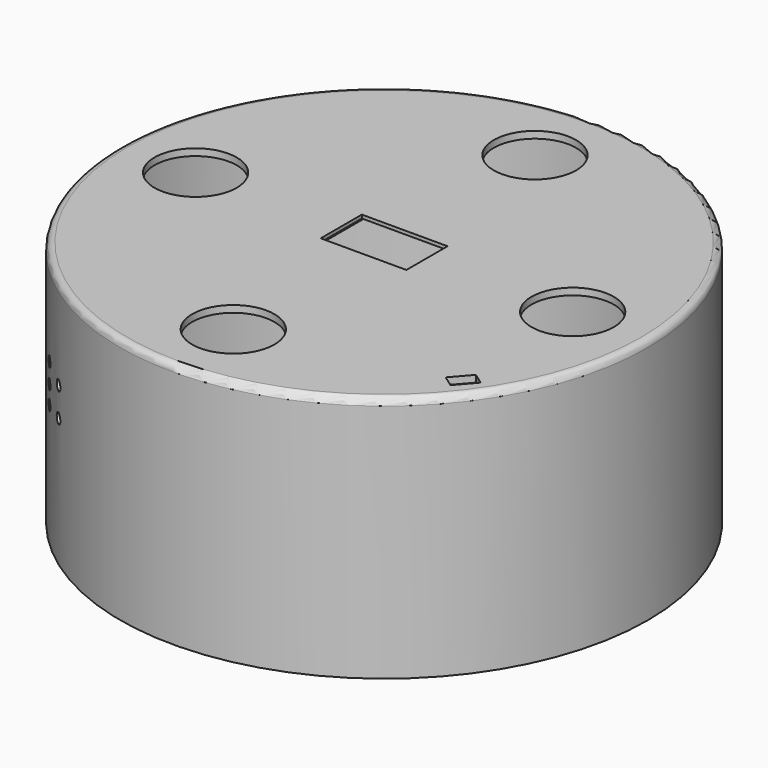
from build123d import *

# Parameters (mm, degrees)
SKETCH_R              = 75
PAD_DEPTH             = 70
THICKNESS_T           = 2
SKETCH001_R           = 12
POCKET_DEPTH          = 5
POLARPATTERN_COUNT    = 4
SKETCH002_R           = 76
POCKET001_DEPTH       = 2
SKETCH003_R           = 3.5
SKETCH003_R_2         = 1.5
PAD001_DEPTH          = 7
POLARPATTERN001_COUNT = 4
SKETCH006_R           = 1.5
POCKET002_DEPTH       = 8
SKETCH007_W           = 25
SKETCH007_H           = 15
POCKET003_DEPTH       = 4
POCKET004_DEPTH       = 3
SKETCH009_W           = 26.5
SKETCH009_H           = 25
POCKET005_DEPTH       = 1
SKETCH004_R           = 76
SKETCH004_R_2         = 1.5
PAD002_DEPTH          = 2
SKETCH005_R           = 3.242031
PAD003_DEPTH          = 3
POLARPATTERN002_COUNT = 4
FILLET_R              = 2


with BuildPart() as enclosure:
    # Sketch → Pad (new body)
    with BuildSketch(Plane.XY):
        Circle(SKETCH_R)
    extrude(amount=PAD_DEPTH)

    # Thickness
    thickness_openings = [enclosure.faces().sort_by_distance(p)[0] for p in [
        (0, 0, 0),
    ]]
    offset(amount=THICKNESS_T, openings=thickness_openings)

    # Sketch001 (on Face6 of Thickness) → Pocket (cut)
    with BuildSketch(Plane.XY.offset(72)):
        with Locations((-55, 0)):
            Circle(SKETCH001_R)
    pocket = extrude(amount=-POCKET_DEPTH, mode=Mode.SUBTRACT)

    # PolarPattern: Pocket ×4 about axis
    polarpattern_axis = Axis((0, 0, 72), (0, 0, 1))
    for i in range(1, POLARPATTERN_COUNT):
        add(pocket.rotate(polarpattern_axis, i * 360 / POLARPATTERN_COUNT), mode=Mode.SUBTRACT)

    # Sketch002 (on Face2 of PolarPattern) → Pocket001 (cut)
    with BuildSketch(Plane(origin=(0, 0, 0), x_dir=(1, 0, 0), z_dir=(0, 0, -1))):
        Circle(SKETCH002_R)
    extrude(amount=-POCKET001_DEPTH, mode=Mode.SUBTRACT)

    # Sketch003 (on Face2 of Pocket001) → Pad001 (join)
    with BuildSketch(Plane(origin=(0, 0, 2), x_dir=(1, 0, 0), z_dir=(0, 0, -1))):
        with Locations((51.09, 51.09)):
            Circle(SKETCH003_R)
        with Locations((51.09, 51.09)):
            Circle(SKETCH003_R_2, mode=Mode.SUBTRACT)
    pad001 = extrude(amount=-PAD001_DEPTH)

    # PolarPattern001: Pad001 ×4 about axis
    polarpattern001_axis = Axis((0, 0, 2), (0, 0, -1))
    for i in range(1, POLARPATTERN001_COUNT):
        add(pad001.rotate(polarpattern001_axis, i * 360 / POLARPATTERN001_COUNT))

    # Sketch006 (on DatumPlane) → Pocket002 (cut)
    with BuildSketch(Plane(origin=(-110, 0, 0), x_dir=(-0.707107, 0.707107, 0), z_dir=(0.707107, 0.707107, 0))):
        with Locations((-80.13, 41.2)):
            Circle(SKETCH006_R)
        with Locations((-90.12, 37.52)):
            Circle(SKETCH006_R)
        with Locations((-90.17, 46.06)):
            Circle(SKETCH006_R)
        with Locations((-80.13, 35.87)):
            Circle(SKETCH006_R)
        with Locations((-80.13, 47)):
            Circle(SKETCH006_R)
        with Locations((-69.97, 37.52)):
            Circle(SKETCH006_R)
        with Locations((-70.02, 46.06)):
            Circle(SKETCH006_R)
    extrude(amount=POCKET002_DEPTH, mode=Mode.SUBTRACT)

    # Sketch007 (on Face42 of Pocket002) → Pocket003 (cut)
    with BuildSketch(Plane.XY.offset(72)):
        Rectangle(SKETCH007_W, SKETCH007_H)
    extrude(amount=-POCKET003_DEPTH, mode=Mode.SUBTRACT)

    # Sketch008 (on Face46 of Pocket003) → Pocket004 (cut)
    with BuildSketch(Plane.XY.offset(72)):
        Polygon((57.180616, -37.995783), (52.58689, -43.277608), (55.835938, -45.610779), (60.429664, -40.328954), align=None)
    extrude(amount=-POCKET004_DEPTH, mode=Mode.SUBTRACT)

    # Sketch009 (on Face7 of Pocket004) → Pocket005 (cut)
    with BuildSketch(Plane(origin=(0, 0, 70), x_dir=(1, 0, 0), z_dir=(0, 0, -1))):
        with Locations((0, -2)):
            Rectangle(SKETCH009_W, SKETCH009_H)
    extrude(amount=-POCKET005_DEPTH, mode=Mode.SUBTRACT)


with BuildPart() as lid:
    # Sketch004 → Pad002 (new body)
    with BuildSketch(Plane.XY):
        Circle(SKETCH004_R)
        with Locations((-51.09, -51.09)):
            Circle(SKETCH004_R_2, mode=Mode.SUBTRACT)
        with Locations((-51.09, 51.09)):
            Circle(SKETCH004_R_2, mode=Mode.SUBTRACT)
        with Locations((51.09, 51.09)):
            Circle(SKETCH004_R_2, mode=Mode.SUBTRACT)
        with Locations((51.09, -51.09)):
            Circle(SKETCH004_R_2, mode=Mode.SUBTRACT)
    extrude(amount=PAD002_DEPTH)

    # Sketch005 (on Face6 of Pad002) → Pad003 (join)
    with BuildSketch(Plane(origin=(0, 0, 0), x_dir=(1, 0, 0), z_dir=(0, 0, -1))):
        with Locations((0, -66)):
            Circle(SKETCH005_R)
    pad003 = extrude(amount=PAD003_DEPTH)

    # PolarPattern002: Pad003 ×4 about axis
    polarpattern002_axis = Axis((0, 0, 0), (0, 0, -1))
    for i in range(1, POLARPATTERN002_COUNT):
        add(pad003.rotate(polarpattern002_axis, i * 360 / POLARPATTERN002_COUNT))

    # Fillet
    fillet_edges = [lid.edges().sort_by_distance(p)[0] for p in [
        (-66, -3.242031, -3),
        (-3.242031, 66, -3),
        (66, 3.242031, -3),
        (3.242031, -66, -3),
    ]]
    fillet(fillet_edges, radius=FILLET_R)


solid = Compound([enclosure.part, lid.part])
